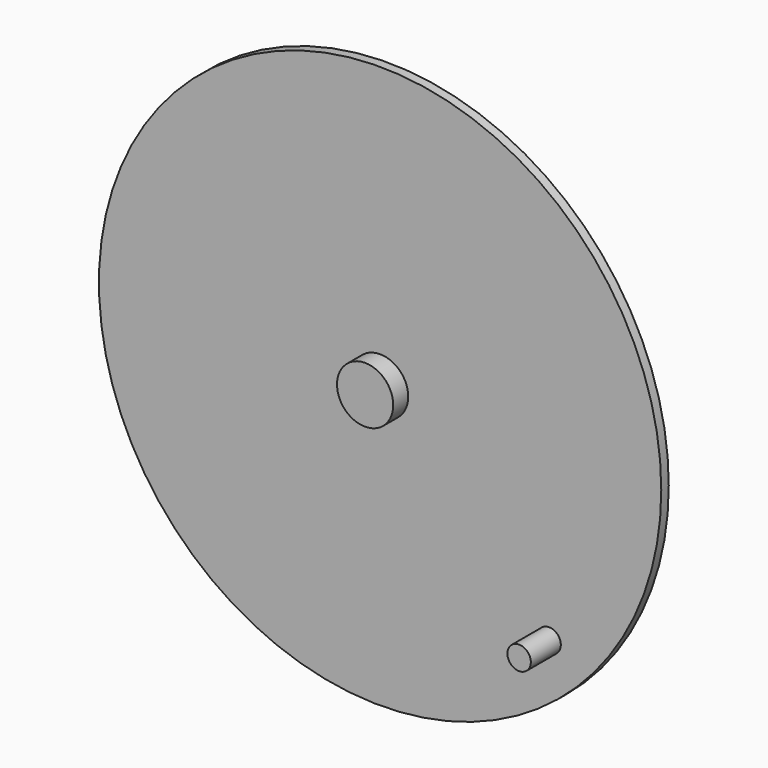
from build123d import *

# Parameters (mm, degrees)
F0_R     = 60
F0_R_2   = 6
F1_DEPTH = 2
F2_DEPTH = 6
F3_R     = 2.5
F4_DEPTH = 8


with BuildPart() as f1:
    # F0 (on Front) → F1 (new body)
    with BuildSketch(Plane.XZ):
        Circle(F0_R)
        Circle(F0_R_2, mode=Mode.SUBTRACT)
    extrude(amount=F1_DEPTH)

    # F3 (on face) → F4 (join)
    with BuildSketch(Plane.XZ.offset(2)):
        with Locations((36.062446, -36.062446)):
            Circle(F3_R)
    extrude(amount=F4_DEPTH)


with BuildPart() as f2:
    # F0 (on Front) → F2 (new body, symmetric)
    with BuildSketch(Plane.XZ):
        Circle(F0_R_2)
    extrude(amount=F2_DEPTH, both=True)


solid = Compound([f1.part, f2.part])
